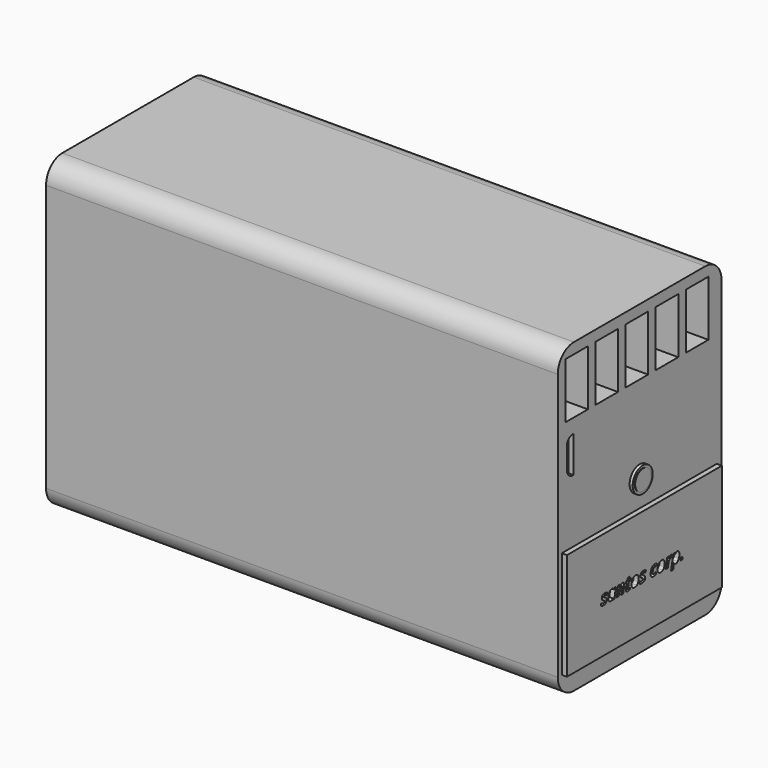
from build123d import *

# Parameters (mm, degrees)
F0_W      = 127
F0_H      = 76.2
F1_DEPTH  = 25.4
F2_R      = 5
F3_W      = 7
F3_H      = 13.8
F4_DEPTH  = 16.4
F5_R      = 2.5
F7_DEPTH  = 0.889
F6_R      = 3.1073780182
F8_DEPTH  = 0.762
F9_W      = 2.032
F9_H      = 9.0348333537
F10_DEPTH = 1.27
F11_R     = 1.905
F12_W     = 48.087624833
F12_H     = 26.5856379405
F13_DEPTH = 1.27


with BuildPart() as f1:
    # F0 (on Front) → F1 (new body, symmetric)
    with BuildSketch(Plane.XZ):
        Rectangle(F0_W, F0_H)
    extrude(amount=F1_DEPTH, both=True)

    # F2
    f2_edges = [f1.edges().sort_by_distance(p)[0] for p in [
        (0, -25.4, 38.1),
        (0, 25.4, 38.1),
        (0, 25.4, -38.1),
        (0, -25.4, -38.1),
    ]]
    fillet(f2_edges, radius=F2_R)

    # F3 (on face) → F4 (cut)
    with BuildSketch(Plane.YZ.offset(63.5)):
        with Locations((17.8334847301, 28.5369852424)):
            Rectangle(F3_W, F3_H)
        with Locations((8.4867877841, 28.5369852424)):
            Rectangle(F3_W, F3_H)
        with Locations((-0.8599091619, 28.5369852424)):
            Rectangle(F3_W, F3_H)
        with Locations((-10.206606108, 28.5369852424)):
            Rectangle(F3_W, F3_H)
        with Locations((-19.553303054, 28.5369852424)):
            Rectangle(F3_W, F3_H)
    extrude(amount=-F4_DEPTH, mode=Mode.SUBTRACT)

    # F5 (on face) → F7 (join)
    with BuildSketch(Plane.YZ.offset(63.5)):
        Circle(F5_R)
    extrude(amount=F7_DEPTH)

    # F6 (on face) → F8 (join)
    with BuildSketch(Plane.YZ.offset(63.5)):
        Circle(F6_R)
    extrude(amount=F8_DEPTH)

    # F9 (on face) → F10 (cut)
    with BuildSketch(Plane.YZ.offset(63.5)):
        with Locations((-21.557085216, 13.6165576987)):
            Rectangle(F9_W, F9_H)
    extrude(amount=-F10_DEPTH, mode=Mode.SUBTRACT)

    # F11
    f11_edges = [f1.edges().sort_by_distance(p)[0] for p in [
        (62.865, -22.573085, 18.133974),
        (62.865, -22.573085, 9.099141),
    ]]
    fillet(f11_edges, radius=F11_R)

    # F12 (on face) → F13 (join)
    with BuildSketch(Plane.YZ.offset(63.5)):
        with Locations((-0.0964580104, -19.8071810298)):
            Rectangle(F12_W, F12_H)
        with BuildLine():
            add(Edge.make_bspline(
                [(-11.927783638, -20.8833127011), (-11.8072848288, -21.0454956913), (-11.8072848288, -21.2556680328)],
                knots=[0, 0, 0, 1, 1, 1], degree=2))
            add(Edge.make_bspline(
                [(-11.8072848288, -21.2556680328), (-11.8072848288, -21.6669052477), (-12.0798082983, -21.8872359191)],
                knots=[0, 0, 0, 1, 1, 1], degree=2))
            add(Edge.make_bspline(
                [(-12.0798082983, -21.8872359191), (-12.3523317678, -22.1075665904), (-12.8385304512, -22.1075665904)],
                knots=[0, 0, 0, 1, 1, 1], degree=2))
            add(Edge.make_bspline(
                [(-12.8385304512, -22.1075665904), (-13.0732228992, -22.1075665904), (-13.2469653682, -22.0746395903)],
                knots=[0, 0, 0, 1, 1, 1], degree=2))
            add(Edge.make_bspline(
                [(-13.2469653682, -22.0746395903), (-13.4207078372, -22.0417125901), (-13.5720319231, -21.9646493982)],
                knots=[0, 0, 0, 1, 1, 1], degree=2))
            Line((-13.5720319231, -21.9646493982), (-13.5720319231, -21.4217041826))
            add(Edge.make_bspline(
                [(-13.5720319231, -21.4217041826), (-13.2280498575, -21.6192661836), (-12.8735591748, -21.6192661836)],
                knots=[0, 0, 0, 1, 1, 1], degree=2))
            add(Edge.make_bspline(
                [(-12.8735591748, -21.6192661836), (-12.6984155569, -21.6192661836), (-12.5866739286, -21.5478075875)],
                knots=[0, 0, 0, 1, 1, 1], degree=2))
            add(Edge.make_bspline(
                [(-12.5866739286, -21.5478075875), (-12.4749323004, -21.4763489914), (-12.4749323004, -21.3537484589)],
                knots=[0, 0, 0, 1, 1, 1], degree=2))
            add(Edge.make_bspline(
                [(-12.4749323004, -21.3537484589), (-12.4749323004, -21.2598714796), (-12.5561989391, -21.1856105856)],
                knots=[0, 0, 0, 1, 1, 1], degree=2))
            add(Edge.make_bspline(
                [(-12.5561989391, -21.1856105856), (-12.6374655778, -21.1113496916), (-12.842733898, -20.9971560527)],
                knots=[0, 0, 0, 1, 1, 1], degree=2))
            add(Edge.make_bspline(
                [(-12.842733898, -20.9971560527), (-13.1082516228, -20.8486342647), (-13.2133377936, -20.7008130512)],
                knots=[0, 0, 0, 1, 1, 1], degree=2))
            add(Edge.make_bspline(
                [(-13.2133377936, -20.7008130512), (-13.3184239643, -20.5529918377), (-13.3184239643, -20.3512263898)],
                knots=[0, 0, 0, 1, 1, 1], degree=2))
            add(Edge.make_bspline(
                [(-13.3184239643, -20.3512263898), (-13.3184239643, -19.9792213453), (-13.0763754844, -19.7746535996)],
                knots=[0, 0, 0, 1, 1, 1], degree=2))
            add(Edge.make_bspline(
                [(-13.0763754844, -19.7746535996), (-12.8343270044, -19.5700858539), (-12.385258768, -19.5700858539)],
                knots=[0, 0, 0, 1, 1, 1], degree=2))
            add(Edge.make_bspline(
                [(-12.385258768, -19.5700858539), (-11.9452979998, -19.5700858539), (-11.5908073171, -19.7774558975)],
                knots=[0, 0, 0, 1, 1, 1], degree=2))
            Line((-11.5908073171, -19.7774558975), (-11.8072848288, -20.2482419425))
            add(Edge.make_bspline(
                [(-11.8072848288, -20.2482419425), (-12.1141364475, -20.0646914309), (-12.3726484275, -20.0646914309)],
                knots=[0, 0, 0, 1, 1, 1], degree=2))
            add(Edge.make_bspline(
                [(-12.3726484275, -20.0646914309), (-12.4973506835, -20.0646914309), (-12.5737133009, -20.1203871014)],
                knots=[0, 0, 0, 1, 1, 1], degree=2))
            add(Edge.make_bspline(
                [(-12.5737133009, -20.1203871014), (-12.6500759183, -20.1760827719), (-12.6500759183, -20.2706603256)],
                knots=[0, 0, 0, 1, 1, 1], degree=2))
            add(Edge.make_bspline(
                [(-12.6500759183, -20.2706603256), (-12.6500759183, -20.3554298367), (-12.5800184712, -20.4202329753)],
                knots=[0, 0, 0, 1, 1, 1], degree=2))
            add(Edge.make_bspline(
                [(-12.5800184712, -20.4202329753), (-12.509961024, -20.4850361139), (-12.3173030443, -20.58311654)],
                knots=[0, 0, 0, 1, 1, 1], degree=2))
            add(Edge.make_bspline(
                [(-12.3173030443, -20.58311654), (-12.0482824471, -20.7211297109), (-11.927783638, -20.8833127011)],
                knots=[0, 0, 0, 1, 1, 1], degree=2))
        make_face(mode=Mode.SUBTRACT)
        with BuildLine():
            add(Edge.make_bspline(
                [(-9.9136320318, -21.746070163), (-10.2071727354, -22.1075665904), (-10.6121047801, -22.1075665904)],
                knots=[0, 0, 0, 1, 1, 1], degree=2))
            add(Edge.make_bspline(
                [(-10.6121047801, -22.1075665904), (-10.9343690371, -22.1075665904), (-11.1193206976, -21.8742752913)],
                knots=[0, 0, 0, 1, 1, 1], degree=2))
            add(Edge.make_bspline(
                [(-11.1193206976, -21.8742752913), (-11.3042723582, -21.6409839923), (-11.3042723582, -21.2206393092)],
                knots=[0, 0, 0, 1, 1, 1], degree=2))
            add(Edge.make_bspline(
                [(-11.3042723582, -21.2206393092), (-11.3042723582, -20.7869837112), (-11.146643102, -20.3939614326)],
                knots=[0, 0, 0, 1, 1, 1], degree=2))
            add(Edge.make_bspline(
                [(-11.146643102, -20.3939614326), (-10.9890138459, -20.000939154), (-10.7326035892, -19.7855125039)],
                knots=[0, 0, 0, 1, 1, 1], degree=2))
            add(Edge.make_bspline(
                [(-10.7326035892, -19.7855125039), (-10.4761933326, -19.5700858539), (-10.1700422884, -19.5700858539)],
                knots=[0, 0, 0, 1, 1, 1], degree=2))
            add(Edge.make_bspline(
                [(-10.1700422884, -19.5700858539), (-9.9577682235, -19.5700858539), (-9.8032915525, -19.6618611097)],
                knots=[0, 0, 0, 1, 1, 1], degree=2))
            add(Edge.make_bspline(
                [(-9.8032915525, -19.6618611097), (-9.6488148815, -19.7536363654), (-9.5633447959, -19.9287799834)],
                knots=[0, 0, 0, 1, 1, 1], degree=2))
            Line((-9.5633447959, -19.9287799834), (-9.5458304341, -19.9287799834))
            Line((-9.5458304341, -19.9287799834), (-9.4211281782, -19.6156231945))
            Line((-9.4211281782, -19.6156231945), (-8.9132116862, -19.6156231945))
            Line((-8.9132116862, -19.6156231945), (-9.4344390931, -22.0634303987))
            Line((-9.4344390931, -22.0634303987), (-9.9360504149, -22.0634303987))
            Line((-9.9360504149, -22.0634303987), (-9.9052251381, -21.746070163))
            Line((-9.9052251381, -21.746070163), (-9.9136320318, -21.746070163))
        make_face(mode=Mode.SUBTRACT)
        with BuildLine():
            Line((-6.4065562264, -20.6685866255), (-6.6979952066, -22.0634303987))
            Line((-6.6979952066, -22.0634303987), (-7.35653521, -22.0634303987))
            Line((-7.35653521, -22.0634303987), (-7.0566893361, -20.6335579019))
            add(Edge.make_bspline(
                [(-7.0566893361, -20.6335579019), (-7.0216606125, -20.4850361139), (-7.0216606125, -20.3729441984)],
                knots=[0, 0, 0, 1, 1, 1], degree=2))
            add(Edge.make_bspline(
                [(-7.0216606125, -20.3729441984), (-7.0216606125, -20.1039236013), (-7.258454784, -20.1039236013)],
                knots=[0, 0, 0, 1, 1, 1], degree=2))
            add(Edge.make_bspline(
                [(-7.258454784, -20.1039236013), (-7.4595196574, -20.1039236013), (-7.623804371, -20.3536784005)],
                knots=[0, 0, 0, 1, 1, 1], degree=2))
            add(Edge.make_bspline(
                [(-7.623804371, -20.3536784005), (-7.7880890846, -20.6034331996), (-7.8819660638, -21.0496991381)],
                knots=[0, 0, 0, 1, 1, 1], degree=2))
            Line((-7.8819660638, -21.0496991381), (-8.0970424266, -22.0634303987))
            Line((-8.0970424266, -22.0634303987), (-8.75558243, -22.0634303987))
            Line((-8.75558243, -22.0634303987), (-8.237157321, -19.6156231945))
            Line((-8.237157321, -19.6156231945), (-7.7334442758, -19.6156231945))
            Line((-7.7334442758, -19.6156231945), (-7.7796821909, -20.0688948777))
            Line((-7.7796821909, -20.0688948777), (-7.766371276, -20.0688948777))
            add(Edge.make_bspline(
                [(-7.766371276, -20.0688948777), (-7.4469093169, -19.5700858539), (-6.9887336124, -19.5700858539)],
                knots=[0, 0, 0, 1, 1, 1], degree=2))
            add(Edge.make_bspline(
                [(-6.9887336124, -19.5700858539), (-6.6867860151, -19.5700858539), (-6.5214504397, -19.7525855037)],
                knots=[0, 0, 0, 1, 1, 1], degree=2))
            add(Edge.make_bspline(
                [(-6.5214504397, -19.7525855037), (-6.3561148644, -19.9350851536), (-6.3561148644, -20.2748637724)],
                knots=[0, 0, 0, 1, 1, 1], degree=2))
            add(Edge.make_bspline(
                [(-6.3561148644, -20.2748637724), (-6.3561148644, -20.434594752), (-6.4065562264, -20.6685866255)],
                knots=[0, 0, 0, 1, 1, 1], degree=2))
        make_face(mode=Mode.SUBTRACT)
        with BuildLine():
            add(Edge.make_bspline(
                [(-5.1959635392, -21.4132972889), (-5.1959635392, -21.5751299919), (-5.0033055595, -21.5751299919)],
                knots=[0, 0, 0, 1, 1, 1], degree=2))
            add(Edge.make_bspline(
                [(-5.0033055595, -21.5751299919), (-4.8610889418, -21.5751299919), (-4.6481143024, -21.4987673745)],
                knots=[0, 0, 0, 1, 1, 1], degree=2))
            Line((-4.6481143024, -21.4987673745), (-4.6481143024, -21.9912712281))
            add(Edge.make_bspline(
                [(-4.6481143024, -21.9912712281), (-4.891213644, -22.1075665904), (-5.2309922628, -22.1075665904)],
                knots=[0, 0, 0, 1, 1, 1], degree=2))
            add(Edge.make_bspline(
                [(-5.2309922628, -22.1075665904), (-5.5588611156, -22.1075665904), (-5.7133377866, -21.9695534195)],
                knots=[0, 0, 0, 1, 1, 1], degree=2))
            add(Edge.make_bspline(
                [(-5.7133377866, -21.9695534195), (-5.8678144576, -21.8315402486), (-5.8678144576, -21.5422029917)],
                knots=[0, 0, 0, 1, 1, 1], degree=2))
            add(Edge.make_bspline(
                [(-5.8678144576, -21.5422029917), (-5.8678144576, -21.4329133742), (-5.8418932022, -21.2970019266)],
                knots=[0, 0, 0, 1, 1, 1], degree=2))
            Line((-5.8418932022, -21.2970019266), (-5.5896863923, -20.1172345163))
            Line((-5.5896863923, -20.1172345163), (-5.9224592664, -20.1172345163))
            Line((-5.9224592664, -20.1172345163), (-5.859407564, -19.7949702593))
            Line((-5.859407564, -19.7949702593), (-5.4299554128, -19.6114197477))
            Line((-5.4299554128, -19.6114197477), (-5.1413187304, -19.0943957876))
            Line((-5.1413187304, -19.0943957876), (-4.7160700261, -19.0943957876))
            Line((-4.7160700261, -19.0943957876), (-4.8232579203, -19.6156231945))
            Line((-4.8232579203, -19.6156231945), (-4.2039500873, -19.6156231945))
            Line((-4.2039500873, -19.6156231945), (-4.3132397049, -20.1172345163))
            Line((-4.3132397049, -20.1172345163), (-4.9311463889, -20.1172345163))
            Line((-4.9311463889, -20.1172345163), (-5.1826526243, -21.2970019266))
            add(Edge.make_bspline(
                [(-5.1826526243, -21.2970019266), (-5.1959635392, -21.362855927), (-5.1959635392, -21.4132972889)],
                knots=[0, 0, 0, 1, 1, 1], degree=2))
        make_face(mode=Mode.SUBTRACT)
        with BuildLine():
            add(Edge.make_bspline(
                [(-2.1130855764, -19.8282475467), (-1.8633307773, -20.0864092395), (-1.8633307773, -20.5396809227)],
                knots=[0, 0, 0, 1, 1, 1], degree=2))
            add(Edge.make_bspline(
                [(-1.8633307773, -20.5396809227), (-1.8633307773, -21.0013594996), (-2.0178074483, -21.3583021929)],
                knots=[0, 0, 0, 1, 1, 1], degree=2))
            add(Edge.make_bspline(
                [(-2.0178074483, -21.3583021929), (-2.1722841193, -21.7152448863), (-2.4633728123, -21.9114057383)],
                knots=[0, 0, 0, 1, 1, 1], degree=2))
            add(Edge.make_bspline(
                [(-2.4633728123, -21.9114057383), (-2.7544615053, -22.1075665904), (-3.1551901031, -22.1075665904)],
                knots=[0, 0, 0, 1, 1, 1], degree=2))
            add(Edge.make_bspline(
                [(-3.1551901031, -22.1075665904), (-3.5825405309, -22.1075665904), (-3.8375496386, -21.8501054721)],
                knots=[0, 0, 0, 1, 1, 1], degree=2))
            add(Edge.make_bspline(
                [(-3.8375496386, -21.8501054721), (-4.0925587463, -21.5926443537), (-4.0925587463, -21.1659945004)],
                knots=[0, 0, 0, 1, 1, 1], degree=2))
            add(Edge.make_bspline(
                [(-4.0925587463, -21.1659945004), (-4.0925587463, -20.6994119023), (-3.9359803518, -20.3347628897)],
                knots=[0, 0, 0, 1, 1, 1], degree=2))
            add(Edge.make_bspline(
                [(-3.9359803518, -20.3347628897), (-3.7794019574, -19.9701138772), (-3.4837595304, -19.7700998655)],
                knots=[0, 0, 0, 1, 1, 1], degree=2))
            add(Edge.make_bspline(
                [(-3.4837595304, -19.7700998655), (-3.1881171033, -19.5700858539), (-2.7915919523, -19.5700858539)],
                knots=[0, 0, 0, 1, 1, 1], degree=2))
            add(Edge.make_bspline(
                [(-2.7915919523, -19.5700858539), (-2.3628403756, -19.5700858539), (-2.1130855764, -19.8282475467)],
                knots=[0, 0, 0, 1, 1, 1], degree=2))
        make_face(mode=Mode.SUBTRACT)
        with BuildLine():
            add(Edge.make_bspline(
                [(0.0282202964, -20.8833127011), (0.1487191055, -21.0454956913), (0.1487191055, -21.2556680328)],
                knots=[0, 0, 0, 1, 1, 1], degree=2))
            add(Edge.make_bspline(
                [(0.1487191055, -21.2556680328), (0.1487191055, -21.6669052477), (-0.123804364, -21.8872359191)],
                knots=[0, 0, 0, 1, 1, 1], degree=2))
            add(Edge.make_bspline(
                [(-0.123804364, -21.8872359191), (-0.3963278335, -22.1075665904), (-0.8825265169, -22.1075665904)],
                knots=[0, 0, 0, 1, 1, 1], degree=2))
            add(Edge.make_bspline(
                [(-0.8825265169, -22.1075665904), (-1.1172189649, -22.1075665904), (-1.2909614339, -22.0746395903)],
                knots=[0, 0, 0, 1, 1, 1], degree=2))
            add(Edge.make_bspline(
                [(-1.2909614339, -22.0746395903), (-1.4647039029, -22.0417125901), (-1.6160279888, -21.9646493982)],
                knots=[0, 0, 0, 1, 1, 1], degree=2))
            Line((-1.6160279888, -21.9646493982), (-1.6160279888, -21.4217041826))
            add(Edge.make_bspline(
                [(-1.6160279888, -21.4217041826), (-1.2720459231, -21.6192661836), (-0.9175552404, -21.6192661836)],
                knots=[0, 0, 0, 1, 1, 1], degree=2))
            add(Edge.make_bspline(
                [(-0.9175552404, -21.6192661836), (-0.7424116225, -21.6192661836), (-0.6306699943, -21.5478075875)],
                knots=[0, 0, 0, 1, 1, 1], degree=2))
            add(Edge.make_bspline(
                [(-0.6306699943, -21.5478075875), (-0.518928366, -21.4763489914), (-0.518928366, -21.3537484589)],
                knots=[0, 0, 0, 1, 1, 1], degree=2))
            add(Edge.make_bspline(
                [(-0.518928366, -21.3537484589), (-0.518928366, -21.2598714796), (-0.6001950048, -21.1856105856)],
                knots=[0, 0, 0, 1, 1, 1], degree=2))
            add(Edge.make_bspline(
                [(-0.6001950048, -21.1856105856), (-0.6814616435, -21.1113496916), (-0.8867299637, -20.9971560527)],
                knots=[0, 0, 0, 1, 1, 1], degree=2))
            add(Edge.make_bspline(
                [(-0.8867299637, -20.9971560527), (-1.1522476885, -20.8486342647), (-1.2573338592, -20.7008130512)],
                knots=[0, 0, 0, 1, 1, 1], degree=2))
            add(Edge.make_bspline(
                [(-1.2573338592, -20.7008130512), (-1.36242003, -20.5529918377), (-1.36242003, -20.3512263898)],
                knots=[0, 0, 0, 1, 1, 1], degree=2))
            add(Edge.make_bspline(
                [(-1.36242003, -20.3512263898), (-1.36242003, -19.9792213453), (-1.12037155, -19.7746535996)],
                knots=[0, 0, 0, 1, 1, 1], degree=2))
            add(Edge.make_bspline(
                [(-1.12037155, -19.7746535996), (-0.87832307, -19.5700858539), (-0.4292548337, -19.5700858539)],
                knots=[0, 0, 0, 1, 1, 1], degree=2))
            add(Edge.make_bspline(
                [(-0.4292548337, -19.5700858539), (0.0107059346, -19.5700858539), (0.3651966173, -19.7774558975)],
                knots=[0, 0, 0, 1, 1, 1], degree=2))
            Line((0.3651966173, -19.7774558975), (0.1487191055, -20.2482419425))
            add(Edge.make_bspline(
                [(0.1487191055, -20.2482419425), (-0.1581325131, -20.0646914309), (-0.4166444932, -20.0646914309)],
                knots=[0, 0, 0, 1, 1, 1], degree=2))
            add(Edge.make_bspline(
                [(-0.4166444932, -20.0646914309), (-0.5413467491, -20.0646914309), (-0.6177093666, -20.1203871014)],
                knots=[0, 0, 0, 1, 1, 1], degree=2))
            add(Edge.make_bspline(
                [(-0.6177093666, -20.1203871014), (-0.694071984, -20.1760827719), (-0.694071984, -20.2706603256)],
                knots=[0, 0, 0, 1, 1, 1], degree=2))
            add(Edge.make_bspline(
                [(-0.694071984, -20.2706603256), (-0.694071984, -20.3554298367), (-0.6240145368, -20.4202329753)],
                knots=[0, 0, 0, 1, 1, 1], degree=2))
            add(Edge.make_bspline(
                [(-0.6240145368, -20.4202329753), (-0.5539570896, -20.4850361139), (-0.3612991099, -20.58311654)],
                knots=[0, 0, 0, 1, 1, 1], degree=2))
            add(Edge.make_bspline(
                [(-0.3612991099, -20.58311654), (-0.0922785128, -20.7211297109), (0.0282202964, -20.8833127011)],
                knots=[0, 0, 0, 1, 1, 1], degree=2))
        make_face(mode=Mode.SUBTRACT)
        with BuildLine():
            add(Edge.make_bspline(
                [(3.4631369312, -21.9345246959), (3.1303640571, -22.1075665904), (2.7275337359, -22.1075665904)],
                knots=[0, 0, 0, 1, 1, 1], degree=2))
            add(Edge.make_bspline(
                [(2.7275337359, -22.1075665904), (2.2875729677, -22.1075665904), (2.0521799452, -21.8721735679)],
                knots=[0, 0, 0, 1, 1, 1], degree=2))
            add(Edge.make_bspline(
                [(2.0521799452, -21.8721735679), (1.8167869227, -21.6367805454), (1.8167869227, -21.2073283943)],
                knots=[0, 0, 0, 1, 1, 1], degree=2))
            add(Edge.make_bspline(
                [(1.8167869227, -21.2073283943), (1.8167869227, -20.743548094), (1.9800207746, -20.3634864431)],
                knots=[0, 0, 0, 1, 1, 1], degree=2))
            add(Edge.make_bspline(
                [(1.9800207746, -20.3634864431), (2.1432546265, -19.9834247922), (2.4388970536, -19.776755323)],
                knots=[0, 0, 0, 1, 1, 1], degree=2))
            add(Edge.make_bspline(
                [(2.4388970536, -19.776755323), (2.7345394806, -19.5700858539), (3.1128496953, -19.5700858539)],
                knots=[0, 0, 0, 1, 1, 1], degree=2))
            add(Edge.make_bspline(
                [(3.1128496953, -19.5700858539), (3.5114765698, -19.5700858539), (3.8309385289, -19.72771511)],
                knots=[0, 0, 0, 1, 1, 1], degree=2))
            Line((3.8309385289, -19.72771511), (3.6298736555, -20.2286258573))
            add(Edge.make_bspline(
                [(3.6298736555, -20.2286258573), (3.5114765698, -20.1781844953), (3.3976332181, -20.1410540483)],
                knots=[0, 0, 0, 1, 1, 1], degree=2))
            add(Edge.make_bspline(
                [(3.3976332181, -20.1410540483), (3.2837898664, -20.1039236013), (3.1394715253, -20.1039236013)],
                knots=[0, 0, 0, 1, 1, 1], degree=2))
            add(Edge.make_bspline(
                [(3.1394715253, -20.1039236013), (2.9531187158, -20.1039236013), (2.8031957788, -20.2440384956)],
                knots=[0, 0, 0, 1, 1, 1], degree=2))
            add(Edge.make_bspline(
                [(2.8031957788, -20.2440384956), (2.6532728419, -20.38415339), (2.5688536181, -20.6283035934)],
                knots=[0, 0, 0, 1, 1, 1], degree=2))
            add(Edge.make_bspline(
                [(2.5688536181, -20.6283035934), (2.4844343942, -20.8724537968), (2.4844343942, -21.1526835855)],
                knots=[0, 0, 0, 1, 1, 1], degree=2))
            add(Edge.make_bspline(
                [(2.4844343942, -21.1526835855), (2.4844343942, -21.362855927), (2.5842662564, -21.4689929594)],
                knots=[0, 0, 0, 1, 1, 1], degree=2))
            add(Edge.make_bspline(
                [(2.5842662564, -21.4689929594), (2.6840981187, -21.5751299919), (2.86134346, -21.5751299919)],
                knots=[0, 0, 0, 1, 1, 1], degree=2))
            add(Edge.make_bspline(
                [(2.86134346, -21.5751299919), (3.0273796098, -21.5751299919), (3.1699465148, -21.5236377682)],
                knots=[0, 0, 0, 1, 1, 1], degree=2))
            add(Edge.make_bspline(
                [(3.1699465148, -21.5236377682), (3.3125134198, -21.4721455446), (3.4631369312, -21.3957829272)],
                knots=[0, 0, 0, 1, 1, 1], degree=2))
            Line((3.4631369312, -21.3957829272), (3.4631369312, -21.9345246959))
        make_face(mode=Mode.SUBTRACT)
        with BuildLine():
            add(Edge.make_bspline(
                [(5.9617357846, -19.8282475467), (6.2114905838, -20.0864092395), (6.2114905838, -20.5396809227)],
                knots=[0, 0, 0, 1, 1, 1], degree=2))
            add(Edge.make_bspline(
                [(6.2114905838, -20.5396809227), (6.2114905838, -21.0013594996), (6.0570139127, -21.3583021929)],
                knots=[0, 0, 0, 1, 1, 1], degree=2))
            add(Edge.make_bspline(
                [(6.0570139127, -21.3583021929), (5.9025372417, -21.7152448863), (5.6114485487, -21.9114057383)],
                knots=[0, 0, 0, 1, 1, 1], degree=2))
            add(Edge.make_bspline(
                [(5.6114485487, -21.9114057383), (5.3203598557, -22.1075665904), (4.9196312579, -22.1075665904)],
                knots=[0, 0, 0, 1, 1, 1], degree=2))
            add(Edge.make_bspline(
                [(4.9196312579, -22.1075665904), (4.4922808302, -22.1075665904), (4.2372717225, -21.8501054721)],
                knots=[0, 0, 0, 1, 1, 1], degree=2))
            add(Edge.make_bspline(
                [(4.2372717225, -21.8501054721), (3.9822626148, -21.5926443537), (3.9822626148, -21.1659945004)],
                knots=[0, 0, 0, 1, 1, 1], degree=2))
            add(Edge.make_bspline(
                [(3.9822626148, -21.1659945004), (3.9822626148, -20.6994119023), (4.1388410092, -20.3347628897)],
                knots=[0, 0, 0, 1, 1, 1], degree=2))
            add(Edge.make_bspline(
                [(4.1388410092, -20.3347628897), (4.2954194036, -19.9701138772), (4.5910618307, -19.7700998655)],
                knots=[0, 0, 0, 1, 1, 1], degree=2))
            add(Edge.make_bspline(
                [(4.5910618307, -19.7700998655), (4.8867042577, -19.5700858539), (5.2832294087, -19.5700858539)],
                knots=[0, 0, 0, 1, 1, 1], degree=2))
            add(Edge.make_bspline(
                [(5.2832294087, -19.5700858539), (5.7119809854, -19.5700858539), (5.9617357846, -19.8282475467)],
                knots=[0, 0, 0, 1, 1, 1], degree=2))
        make_face(mode=Mode.SUBTRACT)
        with BuildLine():
            add(Edge.make_bspline(
                [(11.1085061411, -22.0403114411), (11.0188326087, -21.9583442279), (11.0188326087, -21.8119241634)],
                knots=[0, 0, 0, 1, 1, 1], degree=2))
            add(Edge.make_bspline(
                [(11.0188326087, -21.8119241634), (11.0188326087, -21.6143621623), (11.1361788327, -21.4963153638)],
                knots=[0, 0, 0, 1, 1, 1], degree=2))
            add(Edge.make_bspline(
                [(11.1361788327, -21.4963153638), (11.2535250567, -21.3782685654), (11.4657991217, -21.3782685654)],
                knots=[0, 0, 0, 1, 1, 1], degree=2))
            add(Edge.make_bspline(
                [(11.4657991217, -21.3782685654), (11.6143209097, -21.3782685654), (11.703994442, -21.4612866403)],
                knots=[0, 0, 0, 1, 1, 1], degree=2))
            add(Edge.make_bspline(
                [(11.703994442, -21.4612866403), (11.7936679744, -21.5443047152), (11.7936679744, -21.6956288011)],
                knots=[0, 0, 0, 1, 1, 1], degree=2))
            add(Edge.make_bspline(
                [(11.7936679744, -21.6956288011), (11.7936679744, -21.8861850574), (11.6735194525, -22.0042318558)],
                knots=[0, 0, 0, 1, 1, 1], degree=2))
            add(Edge.make_bspline(
                [(11.6735194525, -22.0042318558), (11.5533709306, -22.1222786543), (11.3586112275, -22.1222786543)],
                knots=[0, 0, 0, 1, 1, 1], degree=2))
            add(Edge.make_bspline(
                [(11.3586112275, -22.1222786543), (11.1981796735, -22.1222786543), (11.1085061411, -22.0403114411)],
                knots=[0, 0, 0, 1, 1, 1], degree=2))
        make_face(mode=Mode.SUBTRACT)
        with BuildLine():
            add(Edge.make_bspline(
                [(7.4788298031, -20.0688948777), (7.8010940601, -19.5700858539), (8.2515634454, -19.5700858539)],
                knots=[0, 0, 0, 1, 1, 1], degree=2))
            add(Edge.make_bspline(
                [(8.2515634454, -19.5700858539), (8.3811697227, -19.5700858539), (8.4617357869, -19.5939053859)],
                knots=[0, 0, 0, 1, 1, 1], degree=2))
            Line((8.4617357869, -19.5939053859), (8.3174174457, -20.2286258573))
            add(Edge.make_bspline(
                [(8.3174174457, -20.2286258573), (8.2186364452, -20.1935971337), (8.0988382106, -20.1935971337)],
                knots=[0, 0, 0, 1, 1, 1], degree=2))
            add(Edge.make_bspline(
                [(8.0988382106, -20.1935971337), (7.8445296773, -20.1935971337), (7.6529225593, -20.3939614326)],
                knots=[0, 0, 0, 1, 1, 1], degree=2))
            add(Edge.make_bspline(
                [(7.6529225593, -20.3939614326), (7.4613154413, -20.5943257315), (7.3807493771, -20.9684324994)],
                knots=[0, 0, 0, 1, 1, 1], degree=2))
            Line((7.3807493771, -20.9684324994), (7.1481586524, -22.0634303987))
            Line((7.1481586524, -22.0634303987), (6.489618649, -22.0634303987))
            Line((6.489618649, -22.0634303987), (7.0080437581, -19.6156231945))
            Line((7.0080437581, -19.6156231945), (7.5117568033, -19.6156231945))
            Line((7.5117568033, -19.6156231945), (7.4655188881, -20.0688948777))
            Line((7.4655188881, -20.0688948777), (7.4788298031, -20.0688948777))
        make_face(mode=Mode.SUBTRACT)
        with BuildLine():
            add(Edge.make_bspline(
                [(9.3815900683, -19.987628239), (9.6835376656, -19.5700858539), (10.0758593698, -19.5700858539)],
                knots=[0, 0, 0, 1, 1, 1], degree=2))
            add(Edge.make_bspline(
                [(10.0758593698, -19.5700858539), (10.3953213289, -19.5700858539), (10.5802729894, -19.8051285891)],
                knots=[0, 0, 0, 1, 1, 1], degree=2))
            add(Edge.make_bspline(
                [(10.5802729894, -19.8051285891), (10.7652246499, -20.0401713244), (10.7652246499, -20.4633183053)],
                knots=[0, 0, 0, 1, 1, 1], degree=2))
            add(Edge.make_bspline(
                [(10.7652246499, -20.4633183053), (10.7652246499, -20.8808606904), (10.615301713, -21.2675777988)],
                knots=[0, 0, 0, 1, 1, 1], degree=2))
            add(Edge.make_bspline(
                [(10.615301713, -21.2675777988), (10.465378776, -21.6542949072), (10.2047650726, -21.8809307488)],
                knots=[0, 0, 0, 1, 1, 1], degree=2))
            add(Edge.make_bspline(
                [(10.2047650726, -21.8809307488), (9.9441513691, -22.1075665904), (9.6309945802, -22.1075665904)],
                knots=[0, 0, 0, 1, 1, 1], degree=2))
            add(Edge.make_bspline(
                [(9.6309945802, -22.1075665904), (9.449545792, -22.1075665904), (9.3181880786, -22.0262999517)],
                knots=[0, 0, 0, 1, 1, 1], degree=2))
            add(Edge.make_bspline(
                [(9.3181880786, -22.0262999517), (9.1868303652, -21.945033313), (9.0754390241, -21.7502736098)],
                knots=[0, 0, 0, 1, 1, 1], degree=2))
            Line((9.0754390241, -21.7502736098), (9.0579246624, -21.7502736098))
            add(Edge.make_bspline(
                [(9.0579246624, -21.7502736098), (9.0313028324, -22.0984591223), (8.9633471087, -22.3962032728)],
                knots=[0, 0, 0, 1, 1, 1], degree=2))
            Line((8.9633471087, -22.3962032728), (8.8057178525, -23.1409139362))
            Line((8.8057178525, -23.1409139362), (8.1464772746, -23.1409139362))
            Line((8.1464772746, -23.1409139362), (8.8953913849, -19.6156231945))
            Line((8.8953913849, -19.6156231945), (9.3991044301, -19.6156231945))
            Line((9.3991044301, -19.6156231945), (9.3619739831, -19.987628239))
            Line((9.3619739831, -19.987628239), (9.3815900683, -19.987628239))
        make_face(mode=Mode.SUBTRACT)
    extrude(amount=F13_DEPTH)


solid = f1.part
